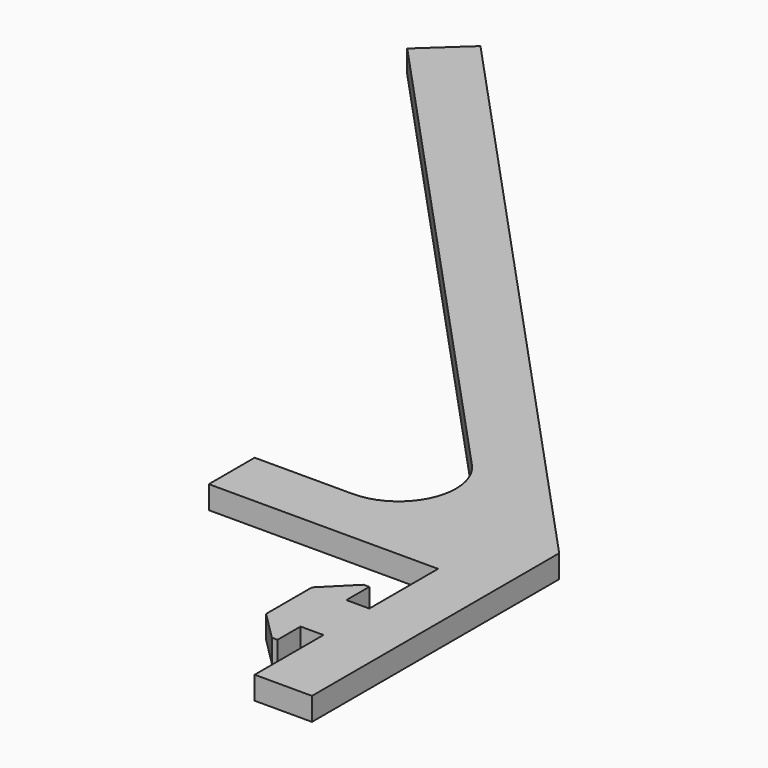
from build123d import *

# Parameters (mm, degrees)
F1_DEPTH = 2
F2_R     = 5


with BuildPart() as f1:
    # F0 (on Top) → F1 (new body)
    with BuildSketch(Plane.XY):
        Polygon((-27.900762, 36.815232), (-27.900762, 31.815232), (-7.900762, 31.815232), (-7.900762, 24.315232), (-9.900762, 24.315232), (-9.900762, 26.815232), (-10.400762, 26.815232), (-12.900762, 24.315232), (-12.900762, 19.315232), (-10.400762, 16.815232), (-9.900762, 16.815232), (-9.900762, 19.315232), (-7.900762, 19.315232), (-7.900762, 11.815232), (-2.900762, 11.815232), (-2.900762, 38.772724), (-53.820934, 93.837559), (-57.491923, 90.442881), (-7.900762, 36.815232), align=None)
    extrude(amount=F1_DEPTH)

    # F2
    f2_edges = [f1.edges().sort_by_distance(p)[0] for p in [
        (-7.900762, 36.815232, 1),
    ]]
    fillet(f2_edges, radius=F2_R)


solid = f1.part
